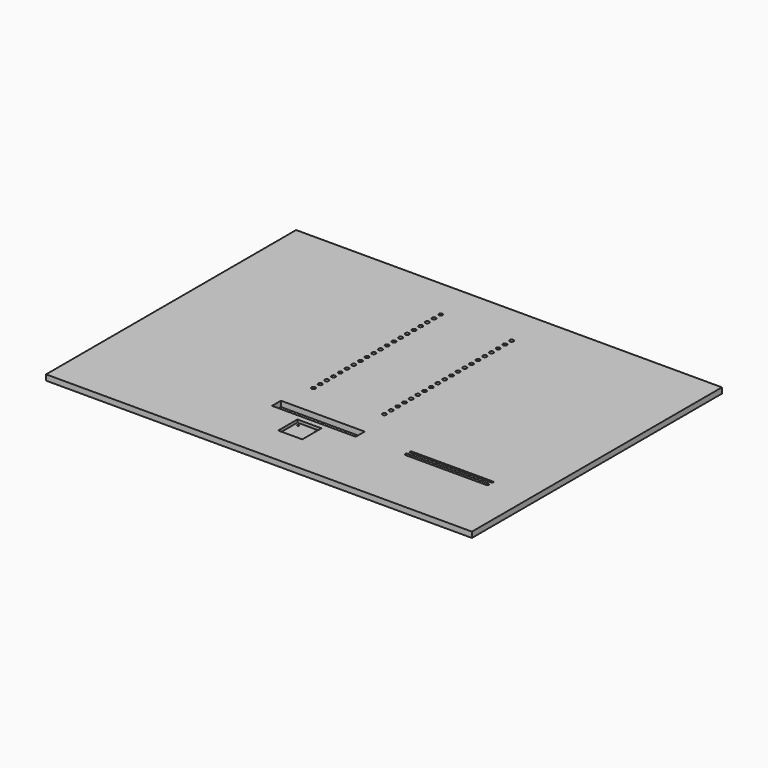
from build123d import *

# Parameters (mm, degrees)
F0_W      = 763
F0_H      = 560
F1_DEPTH  = 10
F2_R      = 3.5
F3_DEPTH  = 10
F4_W      = 43
F4_H      = 43
F4_R      = 1.5
F5_DEPTH  = 5
F6_DEPTH  = 10
F4_W_2    = 150
F4_H_2    = 20
F7_DEPTH  = 10
F8_DEPTH  = 10
F9_DEPTH  = 10
F10_DEPTH = 10


with BuildPart() as f1:
    # F0 (on Top) → F1 (new body)
    with BuildSketch(Plane.XY):
        Rectangle(F0_W, F0_H)
    extrude(amount=F1_DEPTH)

    # F2 (on face) → F3 (cut)
    with BuildSketch(Plane.XY.offset(10)):
        with Locations((-63.5, 206.5)):
            Circle(F2_R)
        with Locations((-63.5, 191.5)):
            Circle(F2_R)
        with Locations((-63.5, 176.5)):
            Circle(F2_R)
        with Locations((-63.5, 161.5)):
            Circle(F2_R)
        with Locations((-63.5, 146.5)):
            Circle(F2_R)
        with Locations((-63.5, 131.5)):
            Circle(F2_R)
        with Locations((-63.5, 116.5)):
            Circle(F2_R)
        with Locations((-63.5, 101.5)):
            Circle(F2_R)
        with Locations((-63.5, 86.5)):
            Circle(F2_R)
        with Locations((-63.5, 71.5)):
            Circle(F2_R)
        with Locations((-63.5, 56.5)):
            Circle(F2_R)
        with Locations((-63.5, 41.5)):
            Circle(F2_R)
        with Locations((-63.5, 26.5)):
            Circle(F2_R)
        with Locations((-63.5, 11.5)):
            Circle(F2_R)
        with Locations((-63.5, -3.5)):
            Circle(F2_R)
        with Locations((-63.5, -18.5)):
            Circle(F2_R)
        with Locations((-63.5, -33.5)):
            Circle(F2_R)
        with Locations((-63.5, -48.5)):
            Circle(F2_R)
        with Locations((-63.5, -63.5)):
            Circle(F2_R)
        with Locations((-63.5, -78.5)):
            Circle(F2_R)
        with Locations((63.5, 191.5)):
            Circle(F2_R)
        with Locations((63.5, 86.5)):
            Circle(F2_R)
        with Locations((63.5, 41.5)):
            Circle(F2_R)
        with Locations((63.5, 26.5)):
            Circle(F2_R)
        with Locations((63.5, 101.5)):
            Circle(F2_R)
        with Locations((63.5, -18.5)):
            Circle(F2_R)
        with Locations((63.5, 131.5)):
            Circle(F2_R)
        with Locations((63.5, -63.5)):
            Circle(F2_R)
        with Locations((63.5, 71.5)):
            Circle(F2_R)
        with Locations((63.5, 161.5)):
            Circle(F2_R)
        with Locations((63.5, 176.5)):
            Circle(F2_R)
        with Locations((63.5, -48.5)):
            Circle(F2_R)
        with Locations((63.5, 11.5)):
            Circle(F2_R)
        with Locations((63.5, -78.5)):
            Circle(F2_R)
        with Locations((63.5, -33.5)):
            Circle(F2_R)
        with Locations((63.5, 146.5)):
            Circle(F2_R)
        with Locations((63.5, -3.5)):
            Circle(F2_R)
        with Locations((63.5, 116.5)):
            Circle(F2_R)
        with Locations((63.5, 56.5)):
            Circle(F2_R)
        with Locations((63.5, 206.5)):
            Circle(F2_R)
    extrude(amount=-F3_DEPTH, mode=Mode.SUBTRACT)

    # F4 (on face) → F5 (cut)
    with BuildSketch(Plane.XY.offset(10)):
        with Locations((0, -188.5)):
            Rectangle(F4_W, F4_H)
        with Locations((-15.5, -204)):
            Circle(F4_R, mode=Mode.SUBTRACT)
        with Locations((-15.5, -173)):
            Circle(F4_R, mode=Mode.SUBTRACT)
        with Locations((15.5, -204)):
            Circle(F4_R, mode=Mode.SUBTRACT)
        with Locations((15.5, -173)):
            Circle(F4_R, mode=Mode.SUBTRACT)
    extrude(amount=-F5_DEPTH, mode=Mode.SUBTRACT)

    # F6 (cut): faces of the model
    f6_faces = [f1.faces().sort_by_distance(p)[0] for p in [
        (15.5, -204, 10),
        (15.5, -173, 10),
        (-15.5, -173, 10),
        (-15.5, -204, 10),
    ]]
    extrude(f6_faces, amount=-F6_DEPTH, mode=Mode.SUBTRACT)

    # F4 (on face) → F7 (cut)
    with BuildSketch(Plane.XY.offset(10)):
        with Locations((0, -147)):
            Rectangle(F4_W_2, F4_H_2)
    extrude(amount=-F7_DEPTH, mode=Mode.SUBTRACT)

    # F4 (on face) → F8 (cut)
    with BuildSketch(Plane.XY.offset(10)):
        with BuildLine():
            Line((309, -152), (164, -152))
            ThreePointArc((164, -152), (161.5, -154.5), (164, -157))
            Line((164, -157), (309, -157))
            ThreePointArc((309, -157), (311.5, -154.5), (309, -152))
        make_face()
    extrude(amount=-F8_DEPTH, mode=Mode.SUBTRACT)

    # F4 (on face) → F9 (cut)
    with BuildSketch(Plane.XY.offset(10)):
        with BuildLine():
            ThreePointArc((164.5, -143), (162.5, -145), (164.5, -147))
            Line((164.5, -147), (309.5, -147))
            ThreePointArc((309.5, -147), (311.5, -145), (309.5, -143))
            Line((309.5, -143), (164.5, -143))
        make_face()
    extrude(amount=-F9_DEPTH, mode=Mode.SUBTRACT)

    # F2 (on face) → F10 (cut)
    with BuildSketch(Plane.XY.offset(10)):
        with Locations((-63.5, 206.5)):
            Circle(F2_R)
        with Locations((-63.5, 191.5)):
            Circle(F2_R)
        with Locations((-63.5, 176.5)):
            Circle(F2_R)
        with Locations((-63.5, 161.5)):
            Circle(F2_R)
        with Locations((-63.5, 146.5)):
            Circle(F2_R)
        with Locations((-63.5, 131.5)):
            Circle(F2_R)
        with Locations((-63.5, 116.5)):
            Circle(F2_R)
        with Locations((-63.5, 101.5)):
            Circle(F2_R)
        with Locations((-63.5, 86.5)):
            Circle(F2_R)
        with Locations((-63.5, 71.5)):
            Circle(F2_R)
        with Locations((-63.5, 56.5)):
            Circle(F2_R)
        with Locations((-63.5, 41.5)):
            Circle(F2_R)
        with Locations((-63.5, 26.5)):
            Circle(F2_R)
        with Locations((-63.5, 11.5)):
            Circle(F2_R)
        with Locations((-63.5, -3.5)):
            Circle(F2_R)
        with Locations((-63.5, -18.5)):
            Circle(F2_R)
        with Locations((-63.5, -33.5)):
            Circle(F2_R)
        with Locations((-63.5, -48.5)):
            Circle(F2_R)
        with Locations((-63.5, -63.5)):
            Circle(F2_R)
        with Locations((-63.5, -78.5)):
            Circle(F2_R)
        with Locations((63.5, 191.5)):
            Circle(F2_R)
        with Locations((63.5, 86.5)):
            Circle(F2_R)
        with Locations((63.5, 41.5)):
            Circle(F2_R)
        with Locations((63.5, 26.5)):
            Circle(F2_R)
        with Locations((63.5, 101.5)):
            Circle(F2_R)
        with Locations((63.5, -18.5)):
            Circle(F2_R)
        with Locations((63.5, 131.5)):
            Circle(F2_R)
        with Locations((63.5, -63.5)):
            Circle(F2_R)
        with Locations((63.5, 71.5)):
            Circle(F2_R)
        with Locations((63.5, 161.5)):
            Circle(F2_R)
        with Locations((63.5, 176.5)):
            Circle(F2_R)
        with Locations((63.5, -48.5)):
            Circle(F2_R)
        with Locations((63.5, 11.5)):
            Circle(F2_R)
        with Locations((63.5, -78.5)):
            Circle(F2_R)
        with Locations((63.5, -33.5)):
            Circle(F2_R)
        with Locations((63.5, 146.5)):
            Circle(F2_R)
        with Locations((63.5, -3.5)):
            Circle(F2_R)
        with Locations((63.5, 116.5)):
            Circle(F2_R)
        with Locations((63.5, 56.5)):
            Circle(F2_R)
        with Locations((63.5, 206.5)):
            Circle(F2_R)
    extrude(amount=-F10_DEPTH, mode=Mode.SUBTRACT)


solid = f1.part
